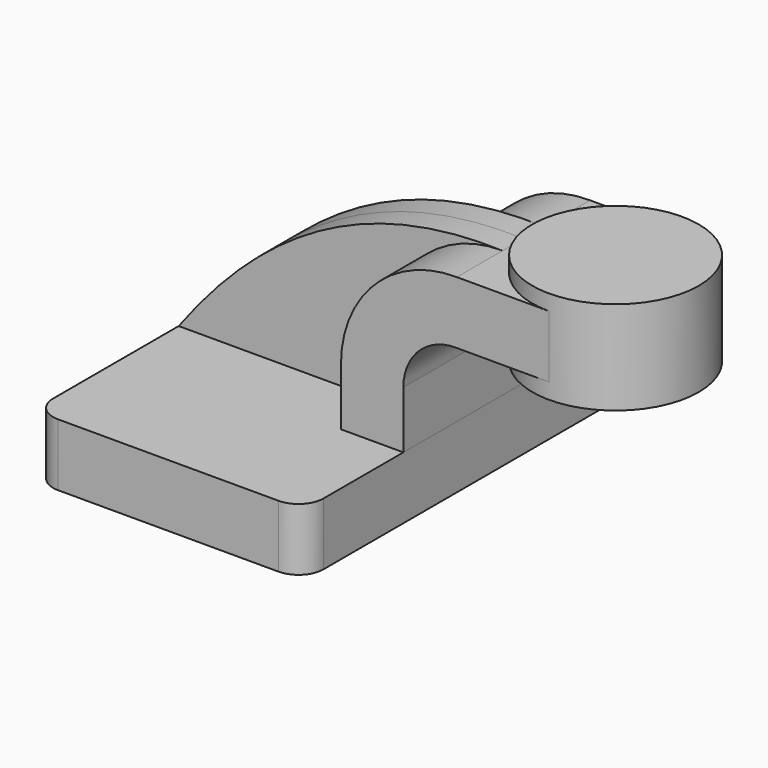
from build123d import *

# Parameters (mm, degrees)
F1_DEPTH = 63.5
F0_W     = 25.4
F0_H     = 19.05
F2_DEPTH = 25.4
F3_DEPTH = 7.9375
F5_R     = 7.62


with BuildPart() as f1:
    # F0 (on Front) → F1 (new body, symmetric)
    with BuildSketch(Plane.XZ):
        Polygon((-41.275, -9.525), (41.275, -9.525), (41.275, 9.525), (22.225, 9.525), (-41.275, 9.525), align=None)
    extrude(amount=F1_DEPTH, both=True)

    # F5
    f5_edges = [f1.edges().sort_by_distance(p)[0] for p in [
        (-41.275, -63.5, 0),
        (41.275, -63.5, 0),
        (41.275, 63.5, 0),
        (-41.275, 63.5, 0),
    ]]
    fillet(f5_edges, radius=F5_R)


with BuildPart() as f2:
    # F0 (on Front) → F2 (new body, symmetric)
    with BuildSketch(Plane.XZ):
        with BuildLine():
            Line((22.225, 9.525), (41.275, 9.525))
            Line((41.275, 9.525), (41.275, 27.0030498541))
            ThreePointArc((41.275, 27.0030498541), (46.031533816, 38.3342163746), (57.4507902004, 42.8752))
            Line((57.4507902004, 42.8752), (60.325, 42.8752))
            Line((60.325, 42.8752), (60.325, 61.9252))
            Line((60.325, 61.9252), (57.5961548882, 61.9252))
            ThreePointArc((57.5961548882, 61.9252), (32.6125422514, 51.8559931855), (22.225, 27.0030498541))
            Line((22.225, 27.0030498541), (22.225, 9.525))
        make_face()
        with Locations((73.025, 52.4002)):
            Rectangle(F0_W, F0_H)
    extrude(amount=F2_DEPTH, both=True)

    # F0 (on Front) → F4 (revolve)
    with BuildSketch(Plane.XZ):
        Polygon((85.725, 66.675), (85.725, 61.9252), (85.725, 42.8752), (85.725, 38.1), (111.125, 38.1), (111.125, 66.675), align=None)
    revolve(axis=Axis((85.725, 0, 52.3875), (0, 0, -1)))


with BuildPart() as f3:
    # F0 (on Front) → F3 (new body, symmetric)
    with BuildSketch(Plane.XZ):
        with BuildLine():
            add(Edge.make_bspline(
                [(-41.275, 9.525), (-14.8186832666, 45.1327413321), (16.3958929479, 63.2817000151), (57.5961548882, 61.9252)],
                knots=[0, 0, 0, 0, 111.8985532926, 111.8985532926, 111.8985532926, 111.8985532926], degree=3))
            Line((-41.275, 9.525), (22.225, 9.525))
            Line((22.225, 9.525), (22.225, 27.0030498541))
            ThreePointArc((22.225, 27.0030498541), (32.6125422514, 51.8559931855), (57.5961548882, 61.9252))
        make_face()
    extrude(amount=F3_DEPTH, both=True)


solid = Compound([f1.part, f2.part, f3.part])
